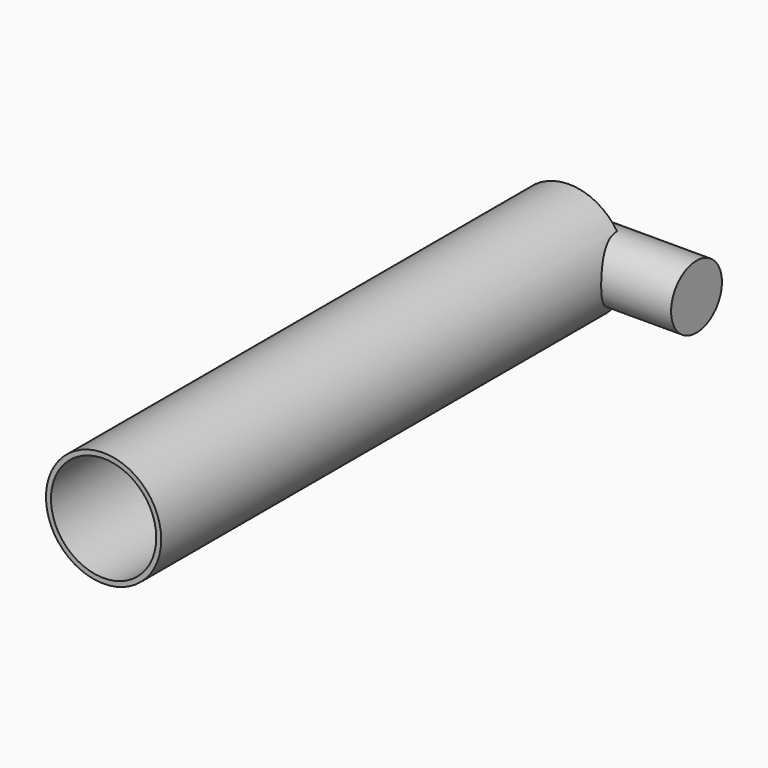
from build123d import *

# Parameters (mm, degrees)
F0_R     = 71.187924
F0_R_2   = 65.063911
F1_DEPTH = 718.82
F2_R     = 39.27729
F2_R_2   = 26.178049
F3_DEPTH = 157.48


with BuildPart() as f1:
    # F0 (on Front) → F1 (new body)
    with BuildSketch(Plane.XZ):
        Circle(F0_R)
        Circle(F0_R_2, mode=Mode.SUBTRACT)
    extrude(amount=F1_DEPTH)

    # F2 (on Right) → F3 (join)
    with BuildSketch(Plane.YZ):
        Circle(F2_R)
        Circle(F2_R_2, mode=Mode.SUBTRACT)
        Circle(F2_R_2)
    extrude(amount=F3_DEPTH)


solid = f1.part
